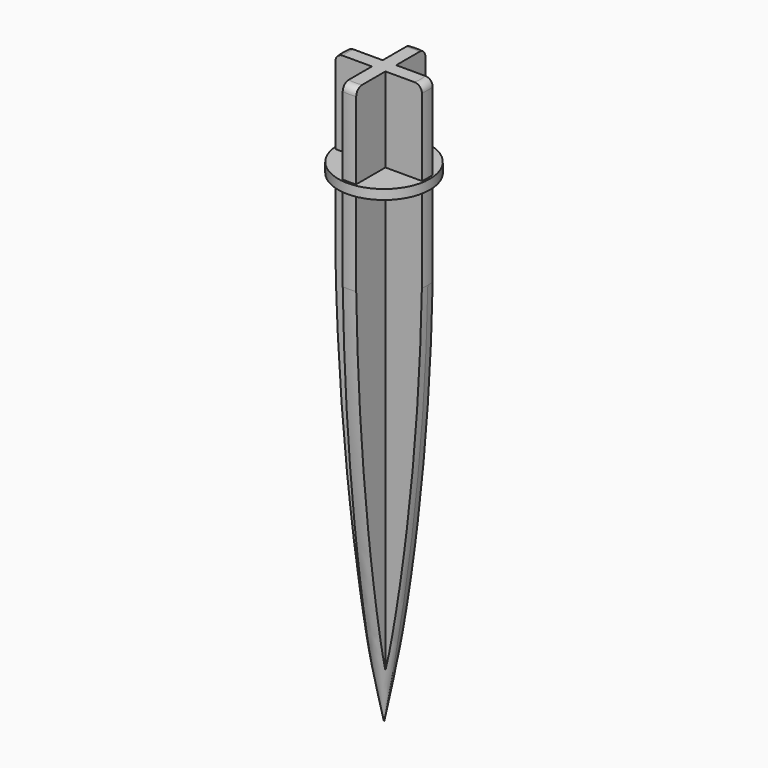
from build123d import *

# Parameters (mm, degrees)
F0_R      = 9.05
F1_DEPTH  = 17.5
F2_R      = 1.5
F4_DEPTH  = 25
F5_R      = 9.5
F6_DEPTH  = 2
F7_R      = 9.05
F8_DEPTH  = 100
F10_ANGLE = 180
F12_DEPTH = 100.001


with BuildPart() as f1:
    # F0 (on Top) → F1 (new body)
    with BuildSketch(Plane.XY):
        Circle(F0_R)
    extrude(amount=F1_DEPTH)

    # F2
    f2_edges = [f1.edges().sort_by_distance(p)[0] for p in [
        (-9.05, 0, 17.5),
    ]]
    fillet(f2_edges, radius=F2_R)

    # F3 (on face) → F4 (cut)
    with BuildSketch(Plane(origin=(0, 0, 0), x_dir=(1, 0, 0), z_dir=(0, 0, -1))):
        with BuildLine():
            Line((9.05, 0), (9.05, 1.3957661577))
            Line((9.05, 1.3957661577), (8.941718897, 1.3957661577))
            ThreePointArc((8.941718897, 1.3957661577), (9.0228891165, 0.6999799933), (9.05, 0))
        make_face()
        with BuildLine():
            Line((1.3957661577, 8.941718897), (1.3957661577, 9.05))
            Line((1.3957661577, 9.05), (0, 9.05))
            ThreePointArc((0, 9.05), (0.6999799933, 9.0228891165), (1.3957661577, 8.941718897))
        make_face()
        with BuildLine():
            Line((-8.941718897, 1.3957661577), (-9.05, 1.3957661577))
            Line((-9.05, 1.3957661577), (-9.05, 0))
            ThreePointArc((-9.05, 0), (-9.0228891165, 0.6999799933), (-8.941718897, 1.3957661577))
        make_face()
        with BuildLine():
            ThreePointArc((-1.3957661577, 8.941718897), (-0.6999799933, 9.0228891165), (0, 9.05))
            Line((0, 9.05), (-1.3957661577, 9.05))
            Line((-1.3957661577, 9.05), (-1.3957661577, 8.941718897))
        make_face()
        with BuildLine():
            Line((9.05, -1.3957661577), (9.05, 0))
            ThreePointArc((9.05, 0), (9.0228891165, -0.6999799933), (8.941718897, -1.3957661577))
            Line((8.941718897, -1.3957661577), (9.05, -1.3957661577))
        make_face()
        with BuildLine():
            ThreePointArc((-8.941718897, -1.3957661577), (-9.0228891165, -0.6999799933), (-9.05, 0))
            Line((-9.05, 0), (-9.05, -1.3957661577))
            Line((-9.05, -1.3957661577), (-8.941718897, -1.3957661577))
        make_face()
        with BuildLine():
            Line((0, -9.05), (1.3957661577, -9.05))
            Line((1.3957661577, -9.05), (1.3957661577, -8.941718897))
            ThreePointArc((1.3957661577, -8.941718897), (0.6999799933, -9.0228891165), (0, -9.05))
        make_face()
        with BuildLine():
            Line((-1.3957661577, -9.05), (0, -9.05))
            ThreePointArc((0, -9.05), (-0.6999799933, -9.0228891165), (-1.3957661577, -8.941718897))
            Line((-1.3957661577, -8.941718897), (-1.3957661577, -9.05))
        make_face()
        with BuildLine():
            Line((1.3957661577, 1.3957661577), (8.941718897, 1.3957661577))
            ThreePointArc((8.941718897, 1.3957661577), (6.3993163697, 6.3993163697), (1.3957661577, 8.941718897))
            Line((1.3957661577, 8.941718897), (1.3957661577, 1.3957661577))
        make_face()
        with BuildLine():
            ThreePointArc((1.3957661577, -8.941718897), (6.3993163697, -6.3993163697), (8.941718897, -1.3957661577))
            Line((8.941718897, -1.3957661577), (1.3957661577, -1.3957661577))
            Line((1.3957661577, -1.3957661577), (1.3957661577, -8.941718897))
        make_face()
        with BuildLine():
            ThreePointArc((-8.941718897, -1.3957661577), (-6.3993163697, -6.3993163697), (-1.3957661577, -8.941718897))
            Line((-1.3957661577, -8.941718897), (-1.3957661577, -1.3957661577))
            Line((-1.3957661577, -1.3957661577), (-8.941718897, -1.3957661577))
        make_face()
        with BuildLine():
            Line((-1.3957661577, 1.3957661577), (-1.3957661577, 8.941718897))
            ThreePointArc((-1.3957661577, 8.941718897), (-6.3993163697, 6.3993163697), (-8.941718897, 1.3957661577))
            Line((-8.941718897, 1.3957661577), (-1.3957661577, 1.3957661577))
        make_face()
    extrude(amount=-F4_DEPTH, mode=Mode.SUBTRACT)

    # F5 (on face) → F6 (join)
    with BuildSketch(Plane(origin=(0, 0, 0), x_dir=(1, 0, 0), z_dir=(0, 0, -1))):
        Circle(F5_R)
    extrude(amount=F6_DEPTH)

    # F7 (on face) → F8 (join)
    with BuildSketch(Plane(origin=(0, 0, -2), x_dir=(1, 0, 0), z_dir=(0, 0, -1))):
        Circle(F7_R)
    extrude(amount=F8_DEPTH)

    # F9 (on Front) → F10 (revolve, cut)
    with BuildSketch(Plane.XZ):
        with BuildLine():
            Line((-9.05, -19.5278813041), (-9.05, -2))
            ThreePointArc((-9.05, -2), (-9.133446713, -10.7639406521), (-9.05, -19.5278813041))
        make_face()
        with BuildLine():
            Line((9.05, -2), (9.05, -19.5278813041))
            ThreePointArc((9.05, -19.5278813041), (9.133446713, -10.7639406521), (9.05, -2))
        make_face()
        with BuildLine():
            ThreePointArc((9.05, -19.5278813041), (6.38712664, -60.968279359), (0, -102))
            Line((0, -102), (9.05, -102))
            Line((9.05, -102), (9.05, -19.5278813041))
        make_face()
        with BuildLine():
            ThreePointArc((0, -102), (-6.38712664, -60.968279359), (-9.05, -19.5278813041))
            Line((-9.05, -19.5278813041), (-9.05, -102))
            Line((-9.05, -102), (0, -102))
        make_face()
    revolve(axis=Axis((0, 0, -52), (0, 0, -1)), revolution_arc=F10_ANGLE, mode=Mode.SUBTRACT)

    # F11 (on face) → F12 (cut, through all)
    with BuildSketch(Plane(origin=(0, 0, -2), x_dir=(1, 0, 0), z_dir=(0, 0, -1))):
        Polygon((-1.3957661577, -12.4198609713), (-1.3957661577, -7.4198609713), (-1.3957661577, -1.3957661577), (-7.4198609713, -1.3957661577), (-12.4198609713, -1.3957661577), align=None)
        Polygon((-12.4198609713, 1.3957661577), (-7.4198609713, 1.3957661577), (-1.3957661577, 1.3957661577), (-1.3957661577, 7.4198609713), (-1.3957661577, 12.4198609713), align=None)
        Polygon((1.3957661577, 12.4198609713), (1.3957661577, 7.4198609713), (1.3957661577, 1.3957661577), (7.4198609713, 1.3957661577), (12.4198609713, 1.3957661577), align=None)
        Polygon((12.4198609713, -1.3957661577), (7.4198609713, -1.3957661577), (1.3957661577, -1.3957661577), (1.3957661577, -7.4198609713), (1.3957661577, -12.4198609713), align=None)
    extrude(amount=F12_DEPTH, mode=Mode.SUBTRACT)


solid = f1.part
